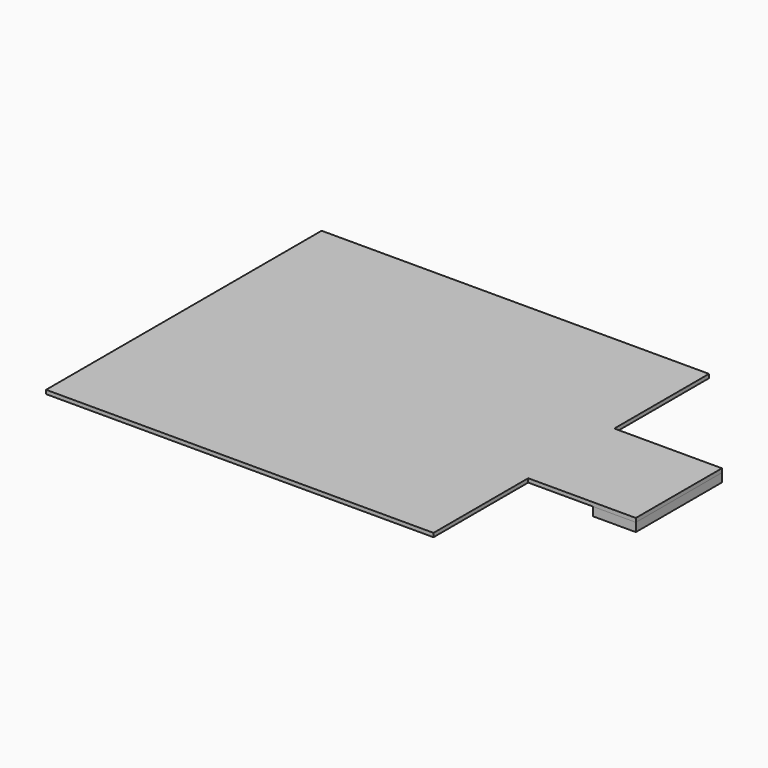
from build123d import *

# Parameters (mm, degrees)
F0_W     = 15
F0_H     = 25
F0_W_2   = 10
F1_DEPTH = 0.9
F2_DEPTH = 2


with BuildPart() as f1:
    # F0 (on Top) → F1 (new body)
    with BuildSketch(Plane.XY):
        Polygon((45, 12.5), (45, 40), (-45, 40), (-45, -40), (45, -40), (45, -12.5), align=None)
        with Locations((52.5, 0)):
            Rectangle(F0_W, F0_H)
        with Locations((65, 0)):
            Rectangle(F0_W_2, F0_H)
    extrude(amount=F1_DEPTH)


with BuildPart() as f2:
    # F0 (on Top) → F2 (new body)
    with BuildSketch(Plane.XY):
        with Locations((65, 0)):
            Rectangle(F0_W_2, F0_H)
    extrude(amount=-F2_DEPTH)


solid = Compound([f1.part, f2.part])
